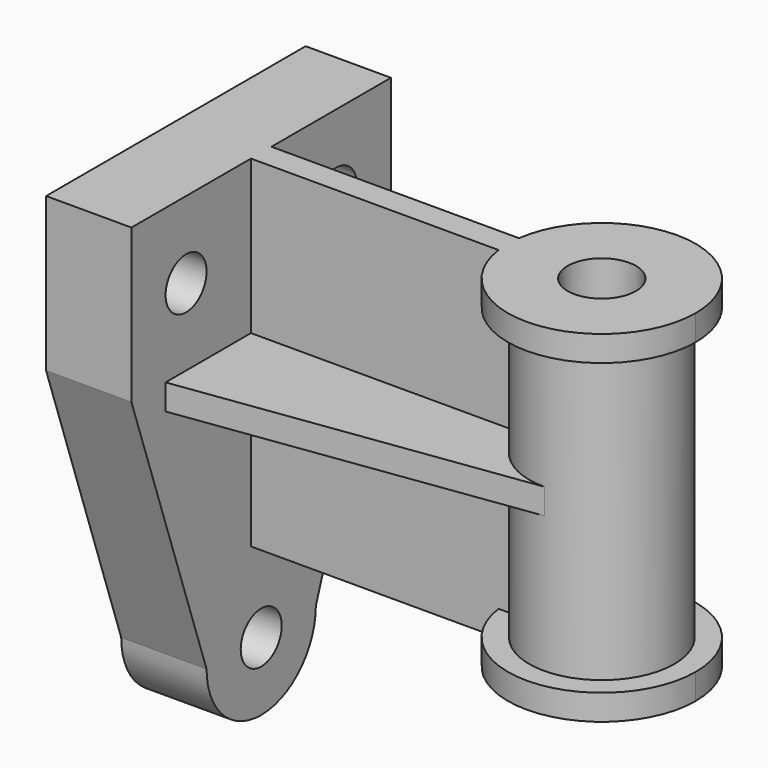
from build123d import *

# Parameters (mm, degrees)
F0_R      = 22
F0_R_2    = 17
F1_DEPTH  = 6
F0_R_3    = 8
F2_DEPTH  = 40
F6_DEPTH  = 80
F7_R      = 6
F8_DEPTH  = 20
F9_W      = 25
F9_H      = 6
F10_DEPTH = 100
F12_DEPTH = 6
F14_DEPTH = 6


with BuildPart() as f1:
    # F0 (on Top) → F1 (new body)
    with BuildSketch(Plane.XY):
        Circle(F0_R)
        Circle(F0_R_2, mode=Mode.SUBTRACT)
    extrude(amount=F1_DEPTH)

    # F0 (on Top) → F2 (join)
    with BuildSketch(Plane.XY):
        Circle(F0_R_2)
        Circle(F0_R_3, mode=Mode.SUBTRACT)
    extrude(amount=F2_DEPTH)


with BuildPart() as f3_1:
    # F3: instance of F1
    add(f1.part.mirror(Plane.XY.offset(40)))


with BuildPart() as f1_1:
    add(f1.part)

    # F5: union F3_1
    add(f3_1.part)

    # F4 (on Top) → F6 (join, through all)
    with BuildSketch(Plane.XY):
        Polygon((-16.7332005307, 3), (-21.7944947177, 3), (-99.7944947177, 3), (-99.7944947177, -3), (-21.7944947177, -3), (-16.7332005307, -3), align=None)
    extrude(amount=F6_DEPTH)

    # F7 (on face) → F8 (join)
    with BuildSketch(Plane(origin=(-99.7944947177, 0, 0), x_dir=(0, -1, 0), z_dir=(-1, 0, 0))):
        with BuildLine():
            Line((38, 80), (3, 80))
            Line((3, 80), (3, 44))
            Line((3, 44), (28, 44))
            Line((28, 44), (28, 38))
            Line((28, 38), (3, 38))
            Line((3, 38), (3, 0))
            Line((3, 0), (-3, 0))
            Line((-3, 0), (-3, 38))
            Line((-3, 38), (-28, 38))
            Line((-28, 38), (-28, 44))
            Line((-28, 44), (-3, 44))
            Line((-3, 44), (-3, 80))
            Line((-3, 80), (-38, 80))
            Line((-38, 80), (-38, 44))
            Line((-38, 44), (-16, -20))
            ThreePointArc((-16, -20), (0, -36), (16, -20))
            Line((16, -20), (38, 44))
            Line((38, 44), (38, 80))
        make_face()
        with Locations((0, -20)):
            Circle(F7_R, mode=Mode.SUBTRACT)
        with Locations((-22, 62)):
            Circle(F7_R, mode=Mode.SUBTRACT)
        with Locations((22, 62)):
            Circle(F7_R, mode=Mode.SUBTRACT)
    extrude(amount=-F8_DEPTH)

    # F9 (on face) → F10 (join)
    with BuildSketch(Plane(origin=(-99.7944947177, 0, 0), x_dir=(0, -1, 0), z_dir=(-1, 0, 0))):
        with Locations((-15.5, 41)):
            Rectangle(F9_W, F9_H)
        with Locations((15.5, 41)):
            Rectangle(F9_W, F9_H)
    extrude(amount=-F10_DEPTH)

    # F11 (on face) → F12 (cut, through all)
    with BuildSketch(Plane.XY.offset(44)):
        Polygon((0.2055052823, -16.9987578246), (-79.7944947177, -28), (0.2055052823, -28), align=None)
    extrude(amount=-F12_DEPTH, mode=Mode.SUBTRACT)

    # F13 (on face) → F14 (cut, through all)
    with BuildSketch(Plane.XY.offset(44)):
        Polygon((0.2055052823, 28), (-79.7944947177, 28), (0.2055052823, 16.9987578246), align=None)
    extrude(amount=-F14_DEPTH, mode=Mode.SUBTRACT)


solid = f1_1.part
